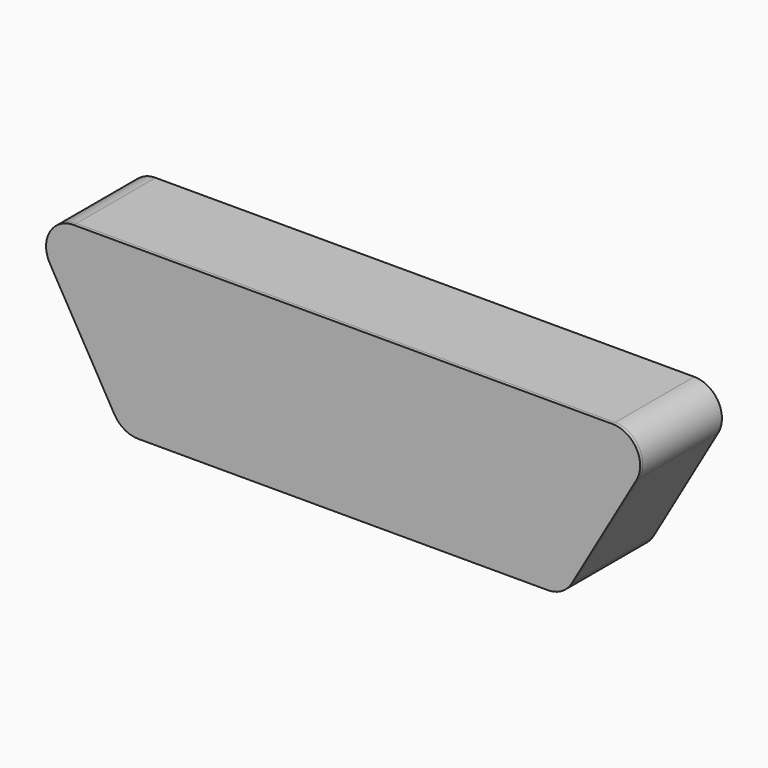
from build123d import *

# Parameters (mm, degrees)
F0_R        = 9.4
F1_DEPTH    = 3
F3_DEPTH    = 3
F5_DEPTH    = 6.35
F7_DEPTH    = 3.175
F8_W        = 490
F8_H        = 3.175
F9_DEPTH    = 85
F11_W       = 490
F11_H       = 90
F12_DEPTH   = 3.175
F13_W       = 90
F13_H       = 117.6
F14_DEPTH   = 3.175
F15_W       = 372.4
F15_H       = 89.9999978185
F16_DEPTH   = 3.175
F17_W       = 90
F17_H       = 3.175
F19_W       = 3.175
F19_H       = 90
F21_W       = 90
F21_H       = 117.6
F22_DEPTH   = 3.175
F12_FACE1_W = 90
F12_FACE1_H = 3.175
F22_FACE_W  = 90
F22_FACE_H  = 3.175
F26_DEPTH   = 3


with BuildPart() as f1:
    # F0 (on Front) → F1 (new body)
    with BuildSketch(Plane.XZ):
        with BuildLine():
            Line((-10.3923048454, -6), (48.4076951546, -107.8445874851))
            ThreePointArc((48.4076951546, -107.8445874851), (52.8, -112.2368923305), (58.8, -113.8445874851))
            Line((58.8, -113.8445874851), (431.2, -113.844587485))
            ThreePointArc((431.2, -113.8445874851), (441.5923048454, -107.8445874851), (441.5923048454, -95.844587485))
            Line((441.5923048454, -95.844587485), (382.7923048454, 6))
            ThreePointArc((382.7923048454, 6), (378.4, 10.3923048454), (372.4, 12))
            Line((372.4, 12), (0, 12))
            ThreePointArc((0, 12), (-10.3923048454, 6), (-10.3923048454, -6))
        make_face()
        with Locations((58.8, -101.8445874851)):
            Circle(F0_R, mode=Mode.SUBTRACT)
        with Locations((78.4, -101.8445874851)):
            Circle(F0_R, mode=Mode.SUBTRACT)
        with Locations((98, -101.8445874851)):
            Circle(F0_R, mode=Mode.SUBTRACT)
        with Locations((49, -84.8704895709)):
            Circle(F0_R, mode=Mode.SUBTRACT)
        with Locations((68.6, -84.8704895709)):
            Circle(F0_R, mode=Mode.SUBTRACT)
        with Locations((88.2, -84.8704895709)):
            Circle(F0_R, mode=Mode.SUBTRACT)
        with Locations((117.6, -101.8445874851)):
            Circle(F0_R, mode=Mode.SUBTRACT)
        with Locations((137.2, -101.8445874851)):
            Circle(F0_R, mode=Mode.SUBTRACT)
        with Locations((156.8, -101.8445874851)):
            Circle(F0_R, mode=Mode.SUBTRACT)
        with Locations((176.4, -101.8445874851)):
            Circle(F0_R, mode=Mode.SUBTRACT)
        with Locations((196, -101.8445874851)):
            Circle(F0_R, mode=Mode.SUBTRACT)
        with Locations((215.6, -101.8445874851)):
            Circle(F0_R, mode=Mode.SUBTRACT)
        with Locations((107.8, -84.8704895709)):
            Circle(F0_R, mode=Mode.SUBTRACT)
        with Locations((127.4, -84.8704895709)):
            Circle(F0_R, mode=Mode.SUBTRACT)
        with Locations((147, -84.8704895709)):
            Circle(F0_R, mode=Mode.SUBTRACT)
        with Locations((166.6, -84.8704895709)):
            Circle(F0_R, mode=Mode.SUBTRACT)
        with Locations((186.2, -84.8704895709)):
            Circle(F0_R, mode=Mode.SUBTRACT)
        with Locations((205.8, -84.8704895709)):
            Circle(F0_R, mode=Mode.SUBTRACT)
        with Locations((39.2, -67.8963916567)):
            Circle(F0_R, mode=Mode.SUBTRACT)
        with Locations((58.8, -67.8963916567)):
            Circle(F0_R, mode=Mode.SUBTRACT)
        with Locations((78.4, -67.8963916567)):
            Circle(F0_R, mode=Mode.SUBTRACT)
        with Locations((98, -67.8963916567)):
            Circle(F0_R, mode=Mode.SUBTRACT)
        with Locations((117.6, -67.8963916567)):
            Circle(F0_R, mode=Mode.SUBTRACT)
        with Locations((137.2, -67.8963916567)):
            Circle(F0_R, mode=Mode.SUBTRACT)
        with Locations((156.8, -67.8963916567)):
            Circle(F0_R, mode=Mode.SUBTRACT)
        with Locations((176.4, -67.8963916567)):
            Circle(F0_R, mode=Mode.SUBTRACT)
        with Locations((196, -67.8963916567)):
            Circle(F0_R, mode=Mode.SUBTRACT)
        with Locations((215.6, -67.8963916567)):
            Circle(F0_R, mode=Mode.SUBTRACT)
        with Locations((235.2, -101.8445874851)):
            Circle(F0_R, mode=Mode.SUBTRACT)
        with Locations((254.8, -101.8445874851)):
            Circle(F0_R, mode=Mode.SUBTRACT)
        with Locations((274.4, -101.8445874851)):
            Circle(F0_R, mode=Mode.SUBTRACT)
        with Locations((294, -101.8445874851)):
            Circle(F0_R, mode=Mode.SUBTRACT)
        with Locations((313.6, -101.8445874851)):
            Circle(F0_R, mode=Mode.SUBTRACT)
        with Locations((225.4, -84.8704895709)):
            Circle(F0_R, mode=Mode.SUBTRACT)
        with Locations((245, -84.8704895709)):
            Circle(F0_R, mode=Mode.SUBTRACT)
        with Locations((264.6, -84.8704895709)):
            Circle(F0_R, mode=Mode.SUBTRACT)
        with Locations((284.2, -84.8704895709)):
            Circle(F0_R, mode=Mode.SUBTRACT)
        with Locations((303.8, -84.8704895709)):
            Circle(F0_R, mode=Mode.SUBTRACT)
        with Locations((323.4, -84.8704895709)):
            Circle(F0_R, mode=Mode.SUBTRACT)
        with Locations((333.2, -101.8445874851)):
            Circle(F0_R, mode=Mode.SUBTRACT)
        with Locations((352.8, -101.8445874851)):
            Circle(F0_R, mode=Mode.SUBTRACT)
        with Locations((372.4, -101.8445874851)):
            Circle(F0_R, mode=Mode.SUBTRACT)
        with Locations((392, -101.8445874851)):
            Circle(F0_R, mode=Mode.SUBTRACT)
        with Locations((411.6, -101.8445874851)):
            Circle(F0_R, mode=Mode.SUBTRACT)
        with Locations((431.2, -101.8445874851)):
            Circle(F0_R, mode=Mode.SUBTRACT)
        with Locations((343, -84.8704895709)):
            Circle(F0_R, mode=Mode.SUBTRACT)
        with Locations((362.6, -84.8704895709)):
            Circle(F0_R, mode=Mode.SUBTRACT)
        with Locations((382.2, -84.8704895709)):
            Circle(F0_R, mode=Mode.SUBTRACT)
        with Locations((401.8, -84.8704895709)):
            Circle(F0_R, mode=Mode.SUBTRACT)
        with Locations((421.4, -84.8704895709)):
            Circle(F0_R, mode=Mode.SUBTRACT)
        with Locations((235.2, -67.8963916567)):
            Circle(F0_R, mode=Mode.SUBTRACT)
        with Locations((254.8, -67.8963916567)):
            Circle(F0_R, mode=Mode.SUBTRACT)
        with Locations((274.4, -67.8963916567)):
            Circle(F0_R, mode=Mode.SUBTRACT)
        with Locations((294, -67.8963916567)):
            Circle(F0_R, mode=Mode.SUBTRACT)
        with Locations((313.6, -67.8963916567)):
            Circle(F0_R, mode=Mode.SUBTRACT)
        with Locations((333.2, -67.8963916567)):
            Circle(F0_R, mode=Mode.SUBTRACT)
        with Locations((352.8, -67.8963916567)):
            Circle(F0_R, mode=Mode.SUBTRACT)
        with Locations((372.4, -67.8963916567)):
            Circle(F0_R, mode=Mode.SUBTRACT)
        with Locations((392, -67.8963916567)):
            Circle(F0_R, mode=Mode.SUBTRACT)
        with Locations((411.6, -67.8963916567)):
            Circle(F0_R, mode=Mode.SUBTRACT)
        with Locations((29.4, -50.9222937425)):
            Circle(F0_R, mode=Mode.SUBTRACT)
        with Locations((49, -50.9222937425)):
            Circle(F0_R, mode=Mode.SUBTRACT)
        with Locations((68.6, -50.9222937425)):
            Circle(F0_R, mode=Mode.SUBTRACT)
        with Locations((88.2, -50.9222937425)):
            Circle(F0_R, mode=Mode.SUBTRACT)
        with Locations((19.6, -33.9481958284)):
            Circle(F0_R, mode=Mode.SUBTRACT)
        with Locations((39.2, -33.9481958284)):
            Circle(F0_R, mode=Mode.SUBTRACT)
        with Locations((58.8, -33.9481958284)):
            Circle(F0_R, mode=Mode.SUBTRACT)
        with Locations((78.4, -33.9481958284)):
            Circle(F0_R, mode=Mode.SUBTRACT)
        with Locations((98, -33.9481958284)):
            Circle(F0_R, mode=Mode.SUBTRACT)
        with Locations((107.8, -50.9222937425)):
            Circle(F0_R, mode=Mode.SUBTRACT)
        with Locations((127.4, -50.9222937425)):
            Circle(F0_R, mode=Mode.SUBTRACT)
        with Locations((147, -50.9222937425)):
            Circle(F0_R, mode=Mode.SUBTRACT)
        with Locations((166.6, -50.9222937425)):
            Circle(F0_R, mode=Mode.SUBTRACT)
        with Locations((186.2, -50.9222937425)):
            Circle(F0_R, mode=Mode.SUBTRACT)
        with Locations((205.8, -50.9222937425)):
            Circle(F0_R, mode=Mode.SUBTRACT)
        with Locations((117.6, -33.9481958284)):
            Circle(F0_R, mode=Mode.SUBTRACT)
        with Locations((137.2, -33.9481958284)):
            Circle(F0_R, mode=Mode.SUBTRACT)
        with Locations((156.8, -33.9481958284)):
            Circle(F0_R, mode=Mode.SUBTRACT)
        with Locations((176.4, -33.9481958284)):
            Circle(F0_R, mode=Mode.SUBTRACT)
        with Locations((196, -33.9481958284)):
            Circle(F0_R, mode=Mode.SUBTRACT)
        with Locations((215.6, -33.9481958284)):
            Circle(F0_R, mode=Mode.SUBTRACT)
        with Locations((9.8, -16.9740979142)):
            Circle(F0_R, mode=Mode.SUBTRACT)
        with Locations((29.4, -16.9740979142)):
            Circle(F0_R, mode=Mode.SUBTRACT)
        with Locations((49, -16.9740979142)):
            Circle(F0_R, mode=Mode.SUBTRACT)
        with Locations((68.6, -16.9740979142)):
            Circle(F0_R, mode=Mode.SUBTRACT)
        with Locations((88.2, -16.9740979142)):
            Circle(F0_R, mode=Mode.SUBTRACT)
        Circle(F0_R, mode=Mode.SUBTRACT)
        with Locations((19.6, 0)):
            Circle(F0_R, mode=Mode.SUBTRACT)
        with Locations((39.2, 0)):
            Circle(F0_R, mode=Mode.SUBTRACT)
        with Locations((58.8, 0)):
            Circle(F0_R, mode=Mode.SUBTRACT)
        with Locations((78.4, 0)):
            Circle(F0_R, mode=Mode.SUBTRACT)
        with Locations((98, 0)):
            Circle(F0_R, mode=Mode.SUBTRACT)
        with Locations((107.8, -16.9740979142)):
            Circle(F0_R, mode=Mode.SUBTRACT)
        with Locations((127.4, -16.9740979142)):
            Circle(F0_R, mode=Mode.SUBTRACT)
        with Locations((147, -16.9740979142)):
            Circle(F0_R, mode=Mode.SUBTRACT)
        with Locations((166.6, -16.9740979142)):
            Circle(F0_R, mode=Mode.SUBTRACT)
        with Locations((186.2, -16.9740979142)):
            Circle(F0_R, mode=Mode.SUBTRACT)
        with Locations((205.8, -16.9740979142)):
            Circle(F0_R, mode=Mode.SUBTRACT)
        with Locations((117.6, 0)):
            Circle(F0_R, mode=Mode.SUBTRACT)
        with Locations((137.2, 0)):
            Circle(F0_R, mode=Mode.SUBTRACT)
        with Locations((156.8, 0)):
            Circle(F0_R, mode=Mode.SUBTRACT)
        with Locations((176.4, 0)):
            Circle(F0_R, mode=Mode.SUBTRACT)
        with Locations((196, 0)):
            Circle(F0_R, mode=Mode.SUBTRACT)
        with Locations((215.6, 0)):
            Circle(F0_R, mode=Mode.SUBTRACT)
        with Locations((225.4, -50.9222937425)):
            Circle(F0_R, mode=Mode.SUBTRACT)
        with Locations((245, -50.9222937425)):
            Circle(F0_R, mode=Mode.SUBTRACT)
        with Locations((264.6, -50.9222937425)):
            Circle(F0_R, mode=Mode.SUBTRACT)
        with Locations((284.2, -50.9222937425)):
            Circle(F0_R, mode=Mode.SUBTRACT)
        with Locations((303.8, -50.9222937425)):
            Circle(F0_R, mode=Mode.SUBTRACT)
        with Locations((323.4, -50.9222937425)):
            Circle(F0_R, mode=Mode.SUBTRACT)
        with Locations((235.2, -33.9481958284)):
            Circle(F0_R, mode=Mode.SUBTRACT)
        with Locations((254.8, -33.9481958284)):
            Circle(F0_R, mode=Mode.SUBTRACT)
        with Locations((274.4, -33.9481958284)):
            Circle(F0_R, mode=Mode.SUBTRACT)
        with Locations((294, -33.9481958284)):
            Circle(F0_R, mode=Mode.SUBTRACT)
        with Locations((313.6, -33.9481958284)):
            Circle(F0_R, mode=Mode.SUBTRACT)
        with Locations((343, -50.9222937425)):
            Circle(F0_R, mode=Mode.SUBTRACT)
        with Locations((362.6, -50.9222937425)):
            Circle(F0_R, mode=Mode.SUBTRACT)
        with Locations((382.2, -50.9222937425)):
            Circle(F0_R, mode=Mode.SUBTRACT)
        with Locations((401.8, -50.9222937425)):
            Circle(F0_R, mode=Mode.SUBTRACT)
        with Locations((333.2, -33.9481958284)):
            Circle(F0_R, mode=Mode.SUBTRACT)
        with Locations((352.8, -33.9481958284)):
            Circle(F0_R, mode=Mode.SUBTRACT)
        with Locations((372.4, -33.9481958284)):
            Circle(F0_R, mode=Mode.SUBTRACT)
        with Locations((392, -33.9481958284)):
            Circle(F0_R, mode=Mode.SUBTRACT)
        with Locations((225.4, -16.9740979142)):
            Circle(F0_R, mode=Mode.SUBTRACT)
        with Locations((245, -16.9740979142)):
            Circle(F0_R, mode=Mode.SUBTRACT)
        with Locations((264.6, -16.9740979142)):
            Circle(F0_R, mode=Mode.SUBTRACT)
        with Locations((284.2, -16.9740979142)):
            Circle(F0_R, mode=Mode.SUBTRACT)
        with Locations((303.8, -16.9740979142)):
            Circle(F0_R, mode=Mode.SUBTRACT)
        with Locations((323.4, -16.9740979142)):
            Circle(F0_R, mode=Mode.SUBTRACT)
        with Locations((235.2, 0)):
            Circle(F0_R, mode=Mode.SUBTRACT)
        with Locations((254.8, 0)):
            Circle(F0_R, mode=Mode.SUBTRACT)
        with Locations((274.4, 0)):
            Circle(F0_R, mode=Mode.SUBTRACT)
        with Locations((294, 0)):
            Circle(F0_R, mode=Mode.SUBTRACT)
        with Locations((313.6, 0)):
            Circle(F0_R, mode=Mode.SUBTRACT)
        with Locations((343, -16.9740979142)):
            Circle(F0_R, mode=Mode.SUBTRACT)
        with Locations((362.6, -16.9740979142)):
            Circle(F0_R, mode=Mode.SUBTRACT)
        with Locations((382.2, -16.9740979142)):
            Circle(F0_R, mode=Mode.SUBTRACT)
        with Locations((333.2, 0)):
            Circle(F0_R, mode=Mode.SUBTRACT)
        with Locations((352.8, 0)):
            Circle(F0_R, mode=Mode.SUBTRACT)
        with Locations((372.4, 0)):
            Circle(F0_R, mode=Mode.SUBTRACT)
    extrude(amount=F1_DEPTH)


with BuildPart() as f3:
    # F2 (on face) → F3 (new body)
    with BuildSketch(Plane.XZ.offset(3)):
        with BuildLine():
            Line((490, 12), (0, 12))
            ThreePointArc((0, 12), (-10.3923048454, 6), (-10.3923048454, -6))
            Line((-10.3923048454, -6), (48.4076951546, -107.8445874851))
            ThreePointArc((48.4076951546, -107.8445874851), (52.8, -112.2368923305), (58.8, -113.8445874851))
            Line((58.8, -113.8445874851), (431.2, -113.844587485))
            ThreePointArc((431.2, -113.844587485), (437.2, -112.2368923305), (441.5923048454, -107.844587485))
            Line((441.5923048454, -107.8445874851), (500.3923048454, -6))
            ThreePointArc((500.3923048454, -6), (500.3923048454, 6), (490, 12))
        make_face()
    extrude(amount=F3_DEPTH)


with BuildPart() as f5:
    # F4 (on face) → F5 (new body)
    with BuildSketch(Plane.XZ.offset(6)):
        with BuildLine():
            Line((490, 22), (0, 22))
            ThreePointArc((0, 22), (-19.0525588833, 11), (-19.0525588833, -11))
            Line((-19.0525588833, -11), (39.7474411167, -112.8445874851))
            ThreePointArc((39.7474411167, -112.8445874851), (47.8, -120.8971463683), (58.8, -123.8445874851))
            Line((58.8, -123.8445874851), (431.2, -123.844587485))
            ThreePointArc((431.2, -123.844587485), (442.2, -120.8971463683), (450.2525588833, -112.8445874851))
            Line((450.2525588833, -112.8445874851), (509.0525588833, -11))
            ThreePointArc((509.0525588833, -11), (509.0525588833, 11), (490, 22))
        make_face()
        with BuildLine():
            ThreePointArc((-10.3923048454, -6), (-10.3923048454, 6), (0, 12))
            Line((0, 12), (490, 12))
            ThreePointArc((490, 12), (500.3923048454, 6), (500.3923048454, -6))
            Line((500.3923048454, -6), (441.5923048454, -107.8445874851))
            ThreePointArc((441.5923048454, -107.8445874851), (437.2, -112.2368923305), (431.2, -113.8445874851))
            Line((431.2, -113.844587485), (58.8, -113.8445874851))
            ThreePointArc((58.8, -113.8445874851), (52.8, -112.2368923305), (48.4076951546, -107.8445874851))
            Line((48.4076951546, -107.8445874851), (-10.3923048454, -6))
        make_face(mode=Mode.SUBTRACT)
    extrude(amount=F5_DEPTH)


with BuildPart() as f7:
    # F6 (on face) → F7 (new body)
    with BuildSketch(Plane.XZ.offset(12.35)):
        with BuildLine():
            Line((490, 22), (0, 22))
            ThreePointArc((0, 22), (-19.0525588833, 11), (-19.0525588833, -11))
            Line((-19.0525588833, -11), (39.7474411167, -112.8445874851))
            ThreePointArc((39.7474411167, -112.8445874851), (47.8, -120.8971463683), (58.8, -123.844587485))
            Line((58.8, -123.8445874851), (431.2, -123.844587485))
            ThreePointArc((431.2, -123.844587485), (442.2, -120.8971463683), (450.2525588833, -112.8445874851))
            Line((450.2525588833, -112.8445874851), (509.0525588833, -11))
            ThreePointArc((509.0525588833, -11), (509.0525588833, 11), (490, 22))
        make_face()
    extrude(amount=F7_DEPTH)


with BuildPart() as f9:
    # F8 (on face) → F9 (new body)
    with BuildSketch(Plane(origin=(0, -6, 0), x_dir=(-1, 0, 0), z_dir=(0, 1, 0))):
        with Locations((-245, 20.4125)):
            Rectangle(F8_W, F8_H)
    extrude(amount=F9_DEPTH)


with BuildPart() as f12:
    # F11 (on face) → F12 (new body)
    with BuildSketch(Plane.XY.offset(22)):
        with Locations((245, 29.475)):
            Rectangle(F11_W, F11_H)
    extrude(amount=F12_DEPTH)


with BuildPart() as f14:
    # F13 (on face) → F14 (new body)
    with BuildSketch(Plane(origin=(386.5525588833, 0, -223.1762239272), x_dir=(0, 1, 0), z_dir=(0.8660254038, 0, -0.5))):
        with Locations((29.475, 186.2)):
            Rectangle(F13_W, F13_H)
    extrude(amount=F14_DEPTH)


with BuildPart() as f16:
    # F15 (on face) → F16 (new body)
    with BuildSketch(Plane(origin=(0, 0, -123.8445874851), x_dir=(1, 0, 0), z_dir=(0, 0, -1))):
        with Locations((245, -29.4749989092)):
            Rectangle(F15_W, F15_H)
    extrude(amount=F16_DEPTH)


with BuildPart() as f18:
    # F18: sweep along a path in F18_path
    with BuildLine(Plane(origin=(509.0525588833, -15.525, -11), x_dir=(0, 0, -1), z_dir=(0, 1, 0))) as f18_path:
        ThreePointArc((0, 0), (-22, 0), (-33, 19.0525588833))
    # F17 (on face) → F18 (sweep)
    with BuildSketch(Plane.YZ.offset(490)):
        with Locations((29.475, 23.5875)):
            Rectangle(F17_W, F17_H)
    sweep(path=f18_path.line)


with BuildPart() as f20:
    # F20: sweep along a path in F20_path
    with BuildLine(Plane(origin=(431.2, -15.525, -123.844587485), x_dir=(0, 0, -1), z_dir=(0, 1, 0))) as f20_path:
        ThreePointArc((0, 0), (-2.9474411167, -11), (-11, -19.0525588833))
    # F19 (on face) → F20 (sweep)
    with BuildSketch(Plane(origin=(63.7, 0, 110.3316364421), x_dir=(0.8660254038, 0, -0.5), z_dir=(-0.5, 0, -0.8660254038))):
        with Locations((447.9399478544, -29.475)):
            Rectangle(F19_W, F19_H)
    sweep(path=f20_path.line)


with BuildPart() as f22:
    # F21 (on face) → F22 (new body)
    with BuildSketch(Plane(origin=(-19.0525588833, 0, -11), x_dir=(0, -1, 0), z_dir=(-0.8660254038, 0, -0.5))):
        with Locations((-29.475, -58.8)):
            Rectangle(F21_W, F21_H)
    extrude(amount=F22_DEPTH)


with BuildPart() as f23:
    # F23: sweep along a path in F23_path
    with BuildLine(Plane(origin=(0, -15.525, 22), x_dir=(0, 0, -1), z_dir=(0, 1, 0))) as f23_path:
        ThreePointArc((0, 0), (11, 19.0525588833), (33, 19.0525588833))
    # F12_face1 (on face) → F23 (sweep)
    with BuildSketch(Plane(origin=(0, 29.475, 23.5875), x_dir=(0, -1, 0), z_dir=(-1, 0, 0))):
        Rectangle(F12_FACE1_W, F12_FACE1_H)
    sweep(path=f23_path.line)


with BuildPart() as f24:
    # F24: sweep along a path in F24_path
    with BuildLine(Plane(origin=(39.7474411167, -15.525, -112.8445874851), x_dir=(0, 0, -1), z_dir=(0, 1, 0))) as f24_path:
        ThreePointArc((0, 0), (8.0525588833, -8.0525588833), (11, -19.0525588833))
    # F22_face (on face) → F24 (sweep)
    with BuildSketch(Plane(origin=(38.3726257882, 29.475, -113.638337485), x_dir=(0, 1, 0), z_dir=(0.5, 0, -0.8660254038))):
        Rectangle(F22_FACE_W, F22_FACE_H)
    sweep(path=f24_path.line)


with BuildPart() as f26:
    # F25 (on face) → F26 (new body)
    with BuildSketch(Plane.XZ.offset(15.525)):
        with BuildLine():
            Line((490, 25.175), (0, 25.175))
            ThreePointArc((0, 25.175), (-21.8021895403, 12.5875), (-21.8021895403, -12.5875))
            Line((-21.8021895403, -12.5875), (36.9978104597, -114.4320874851))
            ThreePointArc((36.9978104597, -114.4320874851), (46.2125, -123.6467770253), (58.8, -127.019587485))
            Line((58.8, -127.0195874851), (431.2, -127.019587485))
            ThreePointArc((431.2, -127.0195874851), (443.7875, -123.6467770253), (453.0021895403, -114.4320874851))
            Line((453.0021895403, -114.4320874851), (511.8021895403, -12.5875))
            ThreePointArc((511.8021895403, -12.5875), (511.8021895403, 12.5875), (490, 25.175))
        make_face()
    extrude(amount=F26_DEPTH)


solid = Compound([f1.part, f3.part, f5.part, f7.part, f12.part, f14.part, f16.part, f18.part, f20.part, f22.part, f23.part, f24.part, f26.part])
